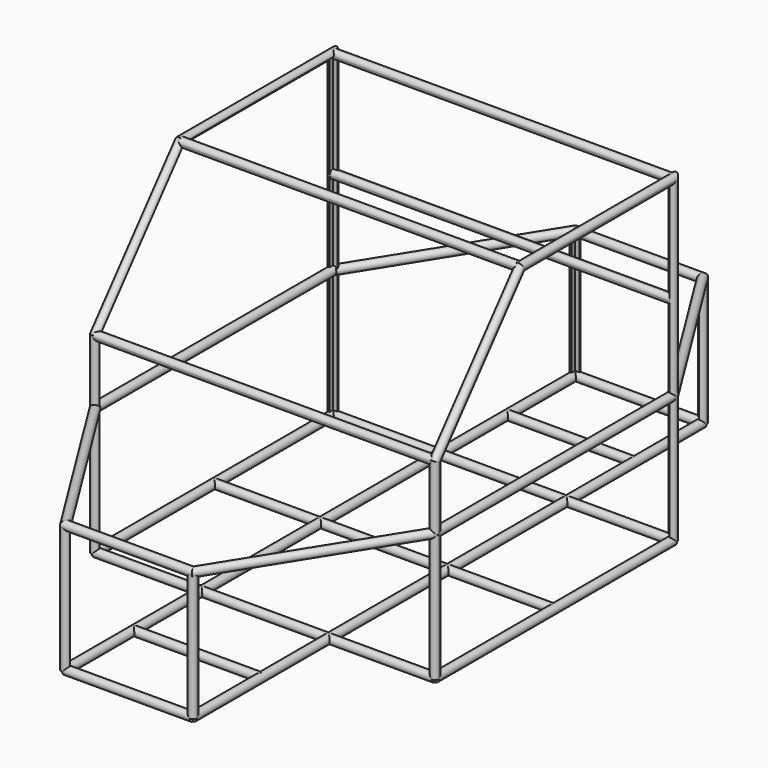
from build123d import *

# Parameters (mm, degrees)
F1_R      = 20
F3_DEPTH  = 700
F4_DEPTH  = 1500
F2_R      = 20
F5_DEPTH  = 300
F6_DEPTH  = 800
F9_DEPTH  = 1600
F10_DEPTH = 600


with BuildPart() as f3:
    # F1 (on Front) → F3 (new body, symmetric)
    with BuildSketch(Plane.XZ):
        with Locations((800, 0)):
            Circle(F1_R)
    extrude(amount=F3_DEPTH, both=True)


with BuildPart() as f3b:
    # F1 (on Front) → F3, piece 2 (new body, symmetric)
    with BuildSketch(Plane.XZ):
        with Locations((-800, 0)):
            Circle(F1_R)
    extrude(amount=F3_DEPTH, both=True)


with BuildPart() as f4:
    # F1 (on Front) → F4 (new body, symmetric)
    with BuildSketch(Plane.XZ):
        with Locations((-300, 0)):
            Circle(F1_R)
    extrude(amount=F4_DEPTH, both=True)


with BuildPart() as f4b:
    # F1 (on Front) → F4, piece 2 (new body, symmetric)
    with BuildSketch(Plane.XZ):
        with Locations((300, 0)):
            Circle(F1_R)
    extrude(amount=F4_DEPTH, both=True)


with BuildPart() as f5:
    # F2 (on Right) → F5 (new body, symmetric)
    with BuildSketch(Plane.YZ):
        with Locations((1500, 0)):
            Circle(F2_R)
    extrude(amount=F5_DEPTH, both=True)


with BuildPart() as f5b:
    # F2 (on Right) → F5, piece 2 (new body, symmetric)
    with BuildSketch(Plane.YZ):
        with Locations((-1500, 0)):
            Circle(F2_R)
    extrude(amount=F5_DEPTH, both=True)


with BuildPart() as f5c:
    # F2 (on Right) → F5, piece 3 (new body, symmetric)
    with BuildSketch(Plane.YZ):
        with Locations((-1100, 0)):
            Circle(F2_R)
    extrude(amount=F5_DEPTH, both=True)


with BuildPart() as f5d:
    # F2 (on Right) → F5, piece 4 (new body, symmetric)
    with BuildSketch(Plane.YZ):
        with Locations((1100, 0)):
            Circle(F2_R)
    extrude(amount=F5_DEPTH, both=True)


with BuildPart() as f6:
    # F2 (on Right) → F6 (new body, symmetric)
    with BuildSketch(Plane.YZ):
        with Locations((-700, 0)):
            Circle(F2_R)
    extrude(amount=F6_DEPTH, both=True)


with BuildPart() as f6b:
    # F2 (on Right) → F6, piece 2 (new body, symmetric)
    with BuildSketch(Plane.YZ):
        Circle(F2_R)
    extrude(amount=F6_DEPTH, both=True)


with BuildPart() as f6c:
    # F2 (on Right) → F6, piece 3 (new body, symmetric)
    with BuildSketch(Plane.YZ):
        with Locations((700, 0)):
            Circle(F2_R)
    extrude(amount=F6_DEPTH, both=True)


with BuildPart() as f9:
    # F8 (on face) → F9 (new body)
    with BuildSketch(Plane(origin=(-800, 0, 0), x_dir=(0, -1, 0), z_dir=(-1, 0, 0))):
        with BuildLine():
            Line((700, 900), (700, 880))
            ThreePointArc((700, 880), (714.1421356237, 885.8578643763), (720, 900))
            ThreePointArc((720, 900), (708.483107925, 918.1117884245), (687.1963120067, 915.3644255919))
            Line((687.1963120067, 915.3644255919), (700, 900))
        make_face()
        with BuildLine():
            ThreePointArc((687.1963120067, 915.3644255919), (681.1945684463, 893.1914947249), (700, 880))
            Line((700, 880), (700, 900))
            Line((700, 900), (687.1963120067, 915.3644255919))
        make_face()
    extrude(amount=-F9_DEPTH)


with BuildPart() as f9b:
    # F8 (on face) → F9, piece 2 (new body)
    with BuildSketch(Plane(origin=(-800, 0, 0), x_dir=(0, -1, 0), z_dir=(-1, 0, 0))):
        with BuildLine():
            Line((200, 1500), (212.8036879933, 1484.6355744081))
            ThreePointArc((212.8036879933, 1484.6355744081), (218.1117884245, 1491.516892075), (220, 1500))
            ThreePointArc((220, 1500), (200, 1520), (180, 1500))
            Line((180, 1500), (200, 1500))
        make_face()
        with BuildLine():
            ThreePointArc((180, 1500), (191.516892075, 1481.8882115755), (212.8036879933, 1484.6355744081))
            Line((212.8036879933, 1484.6355744081), (200, 1500))
            Line((200, 1500), (180, 1500))
        make_face()
    extrude(amount=-F9_DEPTH)


with BuildPart() as f9c:
    # F8 (on face) → F9, piece 3 (new body)
    with BuildSketch(Plane(origin=(-800, 0, 0), x_dir=(0, -1, 0), z_dir=(-1, 0, 0))):
        with BuildLine():
            Line((-700, 1500), (-700, 1480))
            ThreePointArc((-700, 1480), (-685.8578643763, 1485.8578643763), (-680, 1500))
            Line((-680, 1500), (-700, 1500))
        make_face()
        with BuildLine():
            ThreePointArc((-680, 1500), (-714.1421356237, 1514.1421356237), (-700, 1480))
            Line((-700, 1480), (-700, 1500))
            Line((-700, 1500), (-680, 1500))
        make_face()
    extrude(amount=-F9_DEPTH)


with BuildPart() as f9d:
    # F8 (on face) → F9, piece 4 (new body)
    with BuildSketch(Plane(origin=(-800, 0, 0), x_dir=(0, -1, 0), z_dir=(-1, 0, 0))):
        with BuildLine():
            ThreePointArc((-700, 1020), (-720, 1000), (-700, 980))
            Line((-700, 980), (-700, 1020))
        make_face()
        with BuildLine():
            Line((-700, 1020), (-700, 980))
            ThreePointArc((-700, 980), (-685.8578643763, 985.8578643763), (-680, 1000))
            ThreePointArc((-680, 1000), (-685.8578643763, 1014.1421356237), (-700, 1020))
        make_face()
    extrude(amount=-F9_DEPTH)


with BuildPart() as f10:
    # F0 (on Top) → F10 (new body)
    with BuildSketch(Plane.XY):
        with BuildLine():
            Line((-300, -1500), (-300, -1480))
            ThreePointArc((-300, -1480), (-314.1421356237, -1514.1421356237), (-280, -1500))
            Line((-280, -1500), (-300, -1500))
        make_face()
    extrude(amount=F10_DEPTH)


with BuildPart() as f10b:
    # F0 (on Top) → F10, piece 2 (new body)
    with BuildSketch(Plane.XY):
        with BuildLine():
            ThreePointArc((320, -1500), (314.1421356237, -1485.8578643763), (300, -1480))
            Line((300, -1480), (300, -1500))
            Line((300, -1500), (280, -1500))
            ThreePointArc((280, -1500), (300, -1520), (320, -1500))
        make_face()
    extrude(amount=F10_DEPTH)


with BuildPart() as f10c:
    # F0 (on Top) → F10, piece 3 (new body)
    with BuildSketch(Plane.XY):
        with BuildLine():
            Line((300, 1500), (300, 1480))
            ThreePointArc((300, 1480), (314.1421356237, 1485.8578643763), (320, 1500))
            ThreePointArc((320, 1500), (300, 1520), (280, 1500))
            Line((280, 1500), (300, 1500))
        make_face()
    extrude(amount=F10_DEPTH)


with BuildPart() as f10d:
    # F0 (on Top) → F10, piece 4 (new body)
    with BuildSketch(Plane.XY):
        with BuildLine():
            ThreePointArc((-280, 1500), (-314.1421356237, 1514.1421356237), (-300, 1480))
            Line((-300, 1480), (-300, 1500))
            Line((-300, 1500), (-280, 1500))
        make_face()
    extrude(amount=F10_DEPTH)


with BuildPart() as f11:
    # F11: sweep along a path in F7
    with BuildLine(Plane.YZ.offset(800)) as f11_path:
        Line((-700, 0), (-700, 900))
        Line((-700, 900), (-200, 1500))
        Line((-200, 1500), (700, 1500))
        Line((700, 1500), (700, 0))
    # F0 (on Top) → F11 (sweep)
    with BuildSketch(Plane.XY):
        with BuildLine():
            Line((800, -700), (780, -700))
            ThreePointArc((780, -700), (800, -720), (820, -700))
            ThreePointArc((820, -700), (814.1421356237, -685.8578643763), (800, -680))
            Line((800, -680), (800, -700))
        make_face()
    sweep(path=f11_path.line, transition=Transition.RIGHT)


with BuildPart() as f12:
    # F12: sweep along a path in F8
    with BuildLine(Plane(origin=(-800, 0, 0), x_dir=(0, -1, 0), z_dir=(-1, 0, 0))) as f12_path:
        Line((-700, 0), (-700, 1500))
        Line((-700, 1500), (200, 1500))
        Line((200, 1500), (700, 900))
        Line((700, 900), (700, 0))
    # F0 (on Top) → F12 (sweep)
    with BuildSketch(Plane.XY):
        with BuildLine():
            Line((-780, -700), (-800, -700))
            Line((-800, -700), (-800, -680))
            ThreePointArc((-800, -680), (-814.1421356237, -714.1421356237), (-780, -700))
        make_face()
    sweep(path=f12_path.line, transition=Transition.RIGHT)


with BuildPart() as f14:
    # F14: sweep along a path in F13
    with BuildLine(Plane.XY.offset(600)) as f14_path:
        Line((300, -1500), (-300, -1500))
        Line((-300, -1500), (-800, -700))
        Line((-800, -700), (-800, 700))
        Line((-800, 700), (-300, 1500))
        Line((-300, 1500), (300, 1500))
        Line((300, 1500), (800, 700))
        Line((800, 700), (800, -700))
        Line((800, -700), (300, -1500))
    # F2 (on Right) → F14 (sweep)
    with BuildSketch(Plane.YZ):
        with Locations((-1500, 600)):
            Circle(F2_R)
    sweep(path=f14_path.line, transition=Transition.RIGHT)


solid = Compound([f3.part, f3b.part, f4.part, f4b.part, f5.part, f5b.part, f5c.part, f5d.part, f6.part, f6b.part, f6c.part, f9.part, f9b.part, f9c.part, f9d.part, f10.part, f10b.part, f10c.part, f10d.part, f11.part, f12.part, f14.part])
